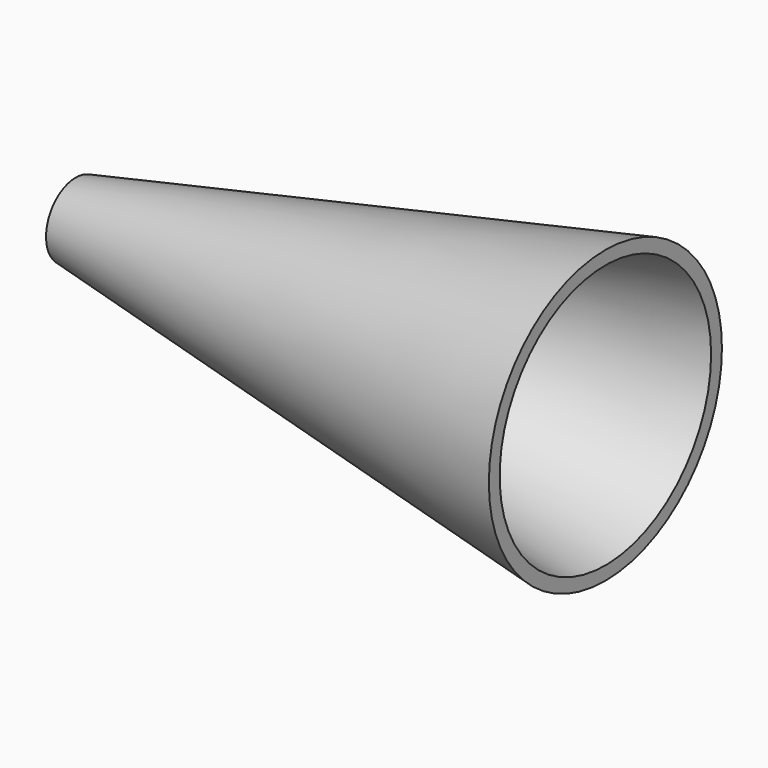
from build123d import *

# Parameters (mm, degrees)
F1_R = 14
F2_R = 55
F4_T = -5


with BuildPart() as f3:
    # F1 (on Right) → F3 section 0
    with BuildSketch(Plane.YZ):
        Circle(F1_R)
    # F2 (on offset) → F3 section 1
    with BuildSketch(Plane.YZ.offset(200)):
        Circle(F2_R)
    loft()

    # F4
    f4_openings = [f3.faces().sort_by_distance(p)[0] for p in [
        (200, 0, 0),
        (0, 0, 0),
    ]]
    offset(amount=F4_T, openings=f4_openings, kind=Kind.INTERSECTION)


solid = f3.part
